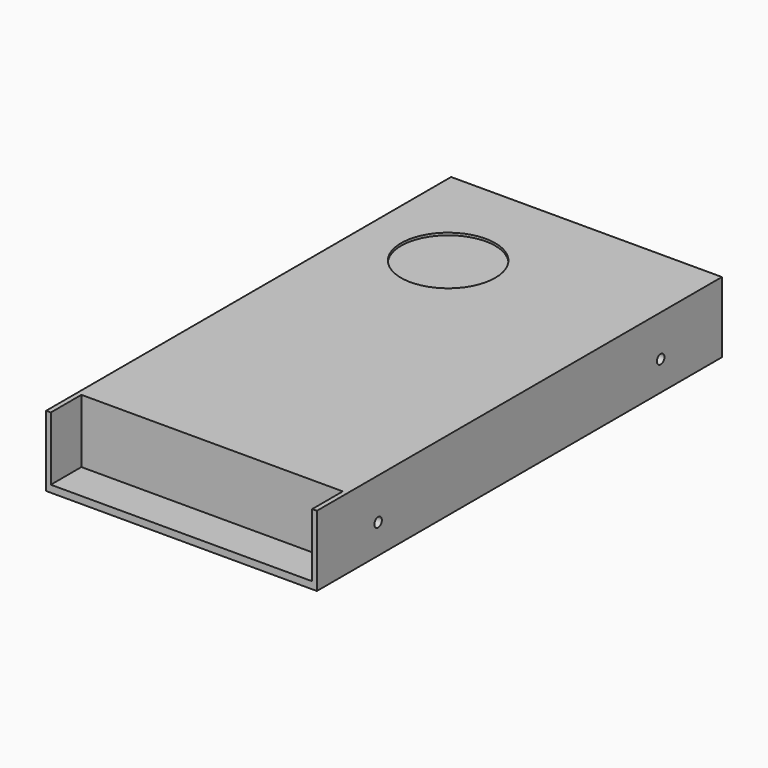
from build123d import *

# Parameters (mm, degrees)
F0_W      = 111
F0_H      = 16.25
F1_DEPTH  = 3
F0_W_2    = 2
F2_DEPTH  = 30
F3_R      = 2
F4_DEPTH  = 5
F5_R      = 2
F6_DEPTH  = 3
F7_R      = 2
F8_DEPTH  = 5
F9_R      = 20
F10_DEPTH = 1


with BuildPart() as f1:
    # F0 (on Top) → F1 (new body)
    with BuildSketch(Plane.XY):
        with Locations((0, -99.375)):
            Rectangle(F0_W, F0_H)
        Polygon((55.5, -91.25), (57.5, -91.25), (57.5, 107.5), (-57.5, 107.5), (-57.5, -91.25), (-55.5, -91.25), align=None)
    extrude(amount=F1_DEPTH)

    # F0 (on Top) → F2 (join)
    with BuildSketch(Plane.XY):
        with Locations((56.5, -99.375)):
            Rectangle(F0_W_2, F0_H)
        with Locations((-56.5, -99.375)):
            Rectangle(F0_W_2, F0_H)
        Polygon((55.5, -91.25), (57.5, -91.25), (57.5, 107.5), (-57.5, 107.5), (-57.5, -91.25), (-55.5, -91.25), align=None)
    extrude(amount=F2_DEPTH)

    # F3 (on face) → F4 (cut)
    with BuildSketch(Plane.YZ.offset(57.5)):
        with Locations((-75, 12.5)):
            Circle(F3_R)
        with Locations((75, 12.5)):
            Circle(F3_R)
    extrude(amount=-F4_DEPTH, mode=Mode.SUBTRACT)

    # F5 (on face) → F6 (cut)
    with BuildSketch(Plane(origin=(0, 0, 0), x_dir=(1, 0, 0), z_dir=(0, 0, -1))):
        with Locations((25, 75)):
            Circle(F5_R)
        with Locations((25, -75)):
            Circle(F5_R)
        with Locations((-25, 75)):
            Circle(F5_R)
        with Locations((-25, -75)):
            Circle(F5_R)
    extrude(amount=-F6_DEPTH, mode=Mode.SUBTRACT)

    # F7 (on face) → F8 (cut)
    with BuildSketch(Plane(origin=(-57.5, 0, 0), x_dir=(0, -1, 0), z_dir=(-1, 0, 0))):
        with Locations((-75, 12.5)):
            Circle(F7_R)
        with Locations((75, 12.5)):
            Circle(F7_R)
    extrude(amount=-F8_DEPTH, mode=Mode.SUBTRACT)

    # F9 (on face) → F10 (cut)
    with BuildSketch(Plane.XY.offset(30)):
        with Locations((-20.8, 60.05)):
            Circle(F9_R)
    extrude(amount=-F10_DEPTH, mode=Mode.SUBTRACT)


solid = f1.part
